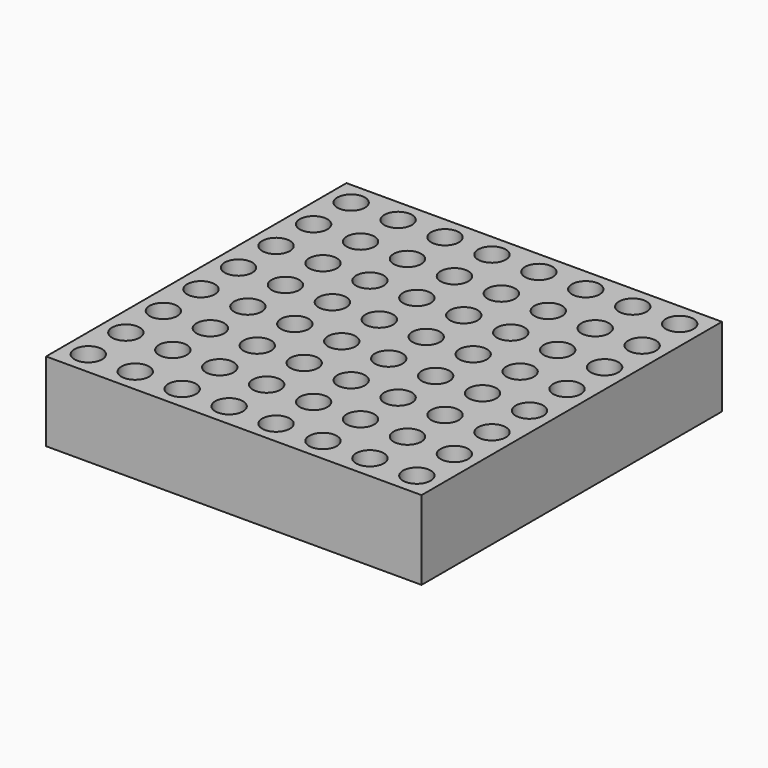
from build123d import *

# Parameters (mm, degrees)
F0_W     = 12.065
F0_H     = 12.065
F1_DEPTH = 2.54
F2_R     = 0.4445
F3_DEPTH = 2.54


with BuildPart() as f1:
    # F0 (on Top) → F1 (new body)
    with BuildSketch(Plane.XY):
        Rectangle(F0_W, F0_H)
    extrude(amount=-F1_DEPTH)

    # F2 (on face) → F3 (cut, through all)
    with BuildSketch(Plane.XY):
        with Locations((-5.278438, 5.278438)):
            Circle(F2_R)
        with Locations((-3.770313, 5.278438)):
            Circle(F2_R)
        with Locations((-5.278438, 3.770313)):
            Circle(F2_R)
        with Locations((-3.770313, 3.770313)):
            Circle(F2_R)
        with Locations((-2.262188, 5.278438)):
            Circle(F2_R)
        with Locations((-2.262188, 3.770313)):
            Circle(F2_R)
        with Locations((-0.754063, 3.770313)):
            Circle(F2_R)
        with Locations((-0.754063, 5.278438)):
            Circle(F2_R)
        with Locations((-0.754063, 2.262187)):
            Circle(F2_R)
        with Locations((-2.262188, 2.262187)):
            Circle(F2_R)
        with Locations((-5.278438, 2.262187)):
            Circle(F2_R)
        with Locations((-3.770313, 2.262187)):
            Circle(F2_R)
        with Locations((0.754062, 2.262187)):
            Circle(F2_R)
        with Locations((0.754062, 3.770313)):
            Circle(F2_R)
        with Locations((0.754062, 5.278438)):
            Circle(F2_R)
        with Locations((2.262187, 5.278438)):
            Circle(F2_R)
        with Locations((2.262187, 3.770313)):
            Circle(F2_R)
        with Locations((2.262187, 2.262187)):
            Circle(F2_R)
        with Locations((-5.278437, -5.278438)):
            Circle(F2_R)
        with Locations((-5.278437, -3.770313)):
            Circle(F2_R)
        with Locations((-5.278438, -2.262188)):
            Circle(F2_R)
        with Locations((-5.278438, -0.754063)):
            Circle(F2_R)
        with Locations((-5.278438, 0.754062)):
            Circle(F2_R)
        with Locations((-3.770313, 0.754062)):
            Circle(F2_R)
        with Locations((-3.770313, -0.754063)):
            Circle(F2_R)
        with Locations((-3.770313, -2.262188)):
            Circle(F2_R)
        with Locations((-3.770313, -3.770313)):
            Circle(F2_R)
        with Locations((-3.770313, -5.278438)):
            Circle(F2_R)
        with Locations((-2.262188, -5.278438)):
            Circle(F2_R)
        with Locations((-2.262188, -3.770313)):
            Circle(F2_R)
        with Locations((-2.262188, -2.262188)):
            Circle(F2_R)
        with Locations((-2.262188, -0.754063)):
            Circle(F2_R)
        with Locations((-2.262188, 0.754062)):
            Circle(F2_R)
        with Locations((-0.754063, 0.754062)):
            Circle(F2_R)
        with Locations((0.754062, 0.754062)):
            Circle(F2_R)
        with Locations((2.262187, 0.754062)):
            Circle(F2_R)
        with Locations((2.262187, -0.754063)):
            Circle(F2_R)
        with Locations((0.754062, -0.754063)):
            Circle(F2_R)
        with Locations((-0.754063, -0.754063)):
            Circle(F2_R)
        with Locations((-0.754063, -2.262188)):
            Circle(F2_R)
        with Locations((0.754062, -2.262188)):
            Circle(F2_R)
        with Locations((2.262187, -2.262188)):
            Circle(F2_R)
        with Locations((2.262187, -3.770313)):
            Circle(F2_R)
        with Locations((0.754062, -3.770313)):
            Circle(F2_R)
        with Locations((-0.754063, -3.770313)):
            Circle(F2_R)
        with Locations((-0.754063, -5.278438)):
            Circle(F2_R)
        with Locations((0.754062, -5.278438)):
            Circle(F2_R)
        with Locations((2.262187, -5.278438)):
            Circle(F2_R)
        with Locations((5.278437, -3.770313)):
            Circle(F2_R)
        with Locations((5.278437, -5.278438)):
            Circle(F2_R)
        with Locations((5.278437, -2.262188)):
            Circle(F2_R)
        with Locations((3.770312, -2.262188)):
            Circle(F2_R)
        with Locations((3.770312, -0.754063)):
            Circle(F2_R)
        with Locations((5.278437, -0.754063)):
            Circle(F2_R)
        with Locations((5.278437, 0.754062)):
            Circle(F2_R)
        with Locations((3.770312, 0.754062)):
            Circle(F2_R)
        with Locations((3.770312, 2.262187)):
            Circle(F2_R)
        with Locations((5.278437, 2.262187)):
            Circle(F2_R)
        with Locations((3.770312, 3.770313)):
            Circle(F2_R)
        with Locations((5.278437, 5.278438)):
            Circle(F2_R)
        with Locations((5.278437, 3.770313)):
            Circle(F2_R)
        with Locations((3.770312, 5.278438)):
            Circle(F2_R)
        with Locations((3.770312, -3.770313)):
            Circle(F2_R)
        with Locations((3.770312, -5.278438)):
            Circle(F2_R)
    extrude(amount=-F3_DEPTH, mode=Mode.SUBTRACT)


solid = f1.part
